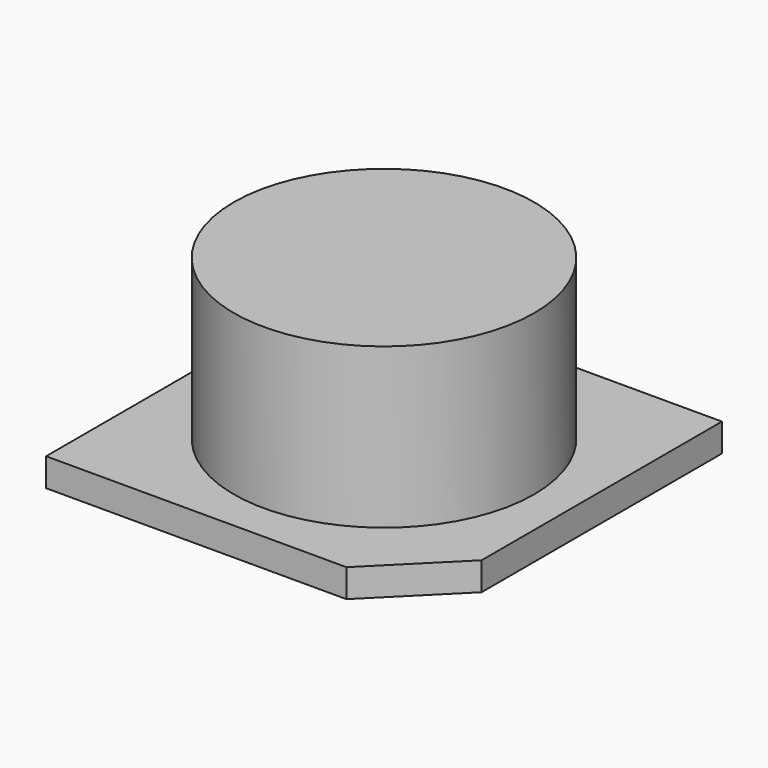
from build123d import *

# Parameters (mm, degrees)
F1_DEPTH = 0.75
F2_R     = 4
F3_DEPTH = 5


with BuildPart() as f1:
    # F0 (on Top) → F1 (new body)
    with BuildSketch(Plane.XY):
        Polygon((-5, -5), (3, -5), (5, -3), (5, 5), (-3, 5), (-5, 3), align=None)
    extrude(amount=F1_DEPTH)

    # F2 (on Top) → F3 (join)
    with BuildSketch(Plane.XY):
        Circle(F2_R)
    extrude(amount=F3_DEPTH)


solid = f1.part
